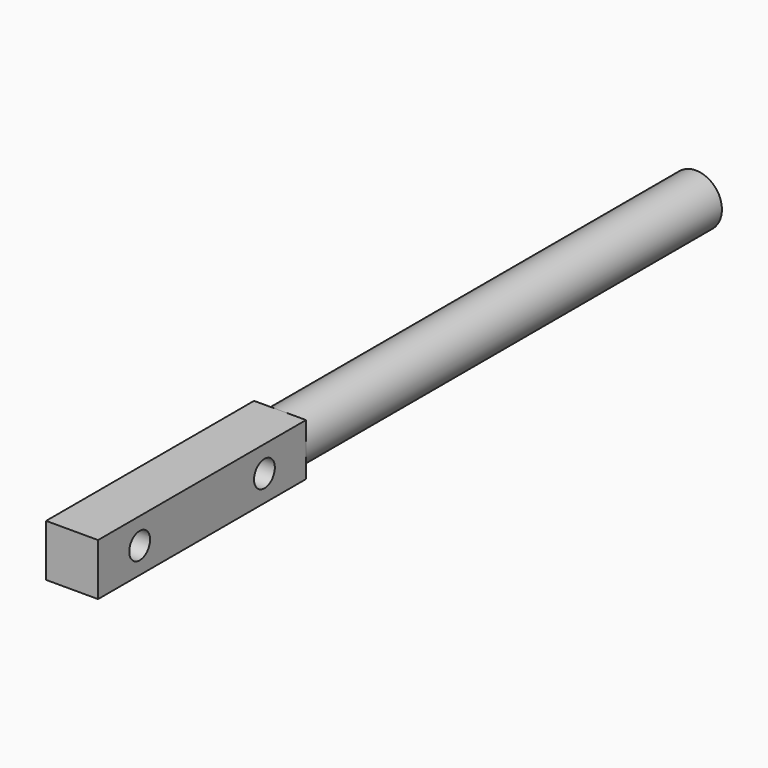
from build123d import *

# Parameters (mm, degrees)
F0_R     = 6.35
F1_DEPTH = 127
F2_W     = 12.7
F2_H     = 12.7
F3_DEPTH = 63.5
F4_R     = 3.175
F5_DEPTH = 12.701


with BuildPart() as f1:
    # F0 (on Front) → F1 (new body)
    with BuildSketch(Plane.XZ):
        Circle(F0_R)
    extrude(amount=F1_DEPTH)

    # F2 (on face) → F3 (join)
    with BuildSketch(Plane.XZ.offset(127)):
        Rectangle(F2_W, F2_H)
    extrude(amount=F3_DEPTH)

    # F4 (on face) → F5 (cut, through all)
    with BuildSketch(Plane.YZ.offset(6.35)):
        with Locations((-177.8, 0)):
            Circle(F4_R)
        with Locations((-139.7, 0)):
            Circle(F4_R)
    extrude(amount=-F5_DEPTH, mode=Mode.SUBTRACT)


solid = f1.part
